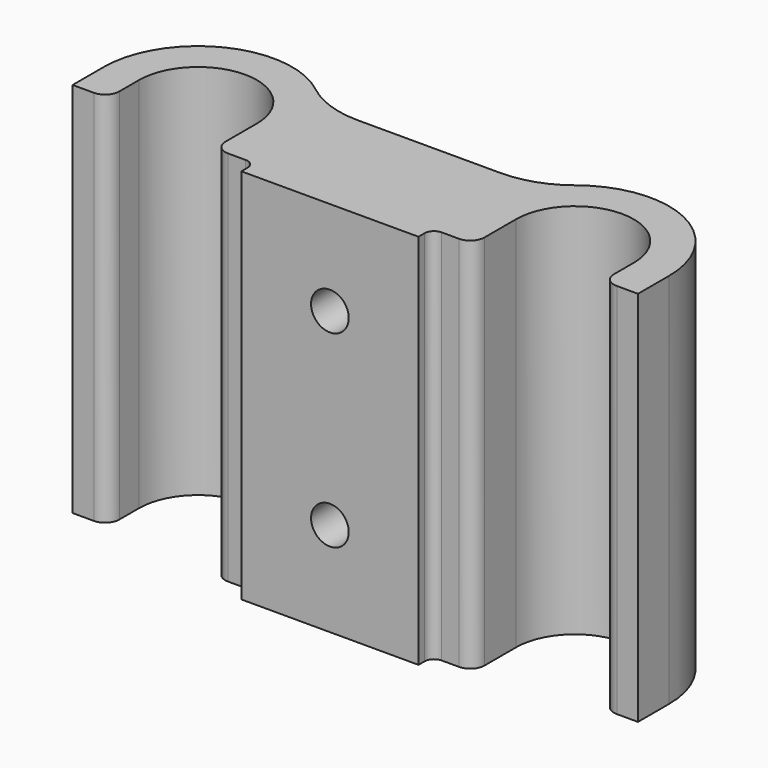
from build123d import *

# Parameters (mm, degrees)
F1_DEPTH = 50.8
F2_R     = 2.54
F3_DEPTH = 16.746445


with BuildPart() as f1:
    # F0 (on Top) → F1 (new body)
    with BuildSketch(Plane.XY):
        with BuildLine():
            Line((38.1, -5.247235), (38.1, 0))
            ThreePointArc((38.1, 0), (30.932739, 11.431483), (17.520662, 9.960222))
            ThreePointArc((17.520662, 9.960222), (13.812365, 7.924929), (9.641324, 7.220445))
            Line((9.641324, 7.220445), (0, 7.220445))
            Line((0, 7.220445), (0, -9.525))
            Line((0, -9.525), (11.938856, -9.525))
            Line((11.938856, -9.525), (11.938856, -8.490445))
            ThreePointArc((11.938856, -8.490445), (12.310831, -7.592419), (13.208856, -7.220445))
            Line((13.208856, -7.220445), (14.952265, -7.220445))
            Line((14.952265, -7.220445), (15.5575, -7.220445))
            ThreePointArc((15.5575, -7.220445), (16.904538, -6.662483), (17.4625, -5.315445))
            Line((17.4625, -5.315445), (17.4625, 0))
            ThreePointArc((17.4625, 0), (25.4, 7.9375), (33.3375, 0))
            Line((33.3375, 0), (33.3375, -3.342235))
            ThreePointArc((33.3375, -3.342235), (33.895462, -4.689273), (35.2425, -5.247235))
            Line((35.2425, -5.247235), (38.1, -5.247235))
        make_face()
        with BuildLine():
            Line((0, -9.525), (0, 7.220445))
            Line((0, 7.220445), (-9.641324, 7.220445))
            ThreePointArc((-9.641324, 7.220445), (-13.812365, 7.924929), (-17.520662, 9.960222))
            ThreePointArc((-17.520662, 9.960222), (-30.932739, 11.431483), (-38.1, 0))
            Line((-38.1, 0), (-38.1, -5.247235))
            Line((-38.1, -5.247235), (-35.2425, -5.247235))
            ThreePointArc((-35.2425, -5.247235), (-33.895462, -4.689273), (-33.3375, -3.342235))
            Line((-33.3375, -3.342235), (-33.3375, 0))
            ThreePointArc((-33.3375, 0), (-25.4, 7.9375), (-17.4625, 0))
            Line((-17.4625, 0), (-17.4625, -5.315445))
            ThreePointArc((-17.4625, -5.315445), (-16.904538, -6.662483), (-15.5575, -7.220445))
            Line((-15.5575, -7.220445), (-14.952265, -7.220445))
            Line((-14.952265, -7.220445), (-13.208856, -7.220445))
            ThreePointArc((-13.208856, -7.220445), (-12.310831, -7.592419), (-11.938856, -8.490445))
            Line((-11.938856, -8.490445), (-11.938856, -9.525))
            Line((-11.938856, -9.525), (0, -9.525))
        make_face()
    extrude(amount=F1_DEPTH)

    # F2 (on face) → F3 (cut, through all)
    with BuildSketch(Plane(origin=(0, 7.220445, 0), x_dir=(-1, 0, 0), z_dir=(0, 1, 0))):
        with Locations((0, 12.7)):
            Circle(F2_R)
        with Locations((0, 38.1)):
            Circle(F2_R)
    extrude(amount=-F3_DEPTH, mode=Mode.SUBTRACT)


solid = f1.part
